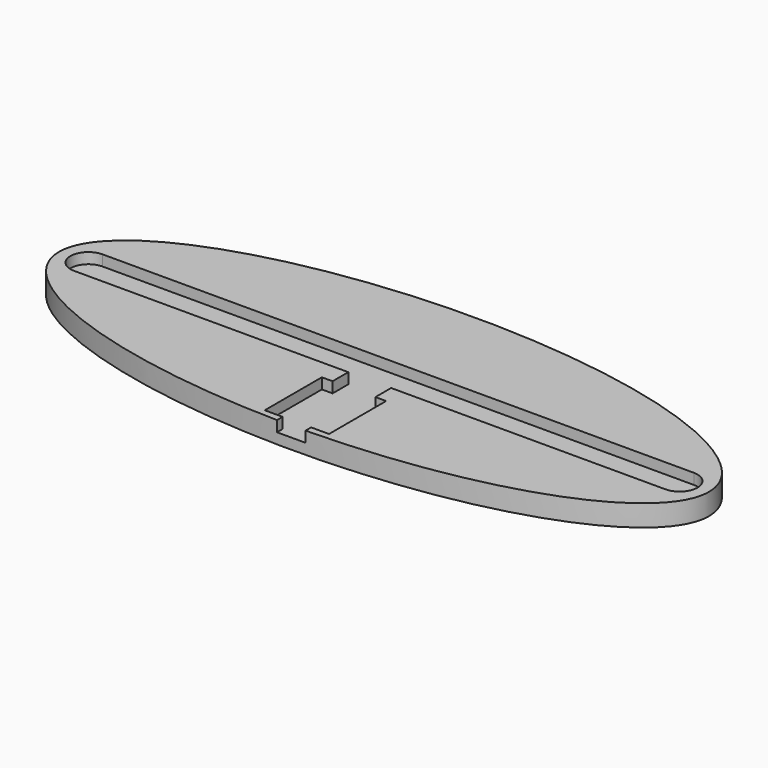
from build123d import *

# Parameters (mm, degrees)
PAD_DEPTH       = 6
POCKET_DEPTH    = 3
SKETCH002_W     = 18
SKETCH002_H     = 20
POCKET001_DEPTH = 3
SKETCH003_W     = 12
SKETCH003_H     = 5.5
SKETCH003_W_2   = 8
SKETCH003_H_2   = 2.1
POCKET002_DEPTH = 3


with BuildPart() as part:
    # Sketch → Pad (new body)
    with BuildSketch(Plane.XY):
        with BuildLine():
            add(Edge.make_bspline(
                [(91.001374, 0), (91.001374, 56.291651), (-45.500687, 28.145826), (-182.002747, 0), (-45.500687, -28.145826), (91.001374, -56.291651), (91.001374, 0)],
                knots=[0, 0, 0, 2.094395, 2.094395, 4.18879, 4.18879, 6.283185, 6.283185, 6.283185], degree=2, weights=[1, 0.5, 1, 0.5, 1, 0.5, 1]))
        make_face()
    extrude(amount=PAD_DEPTH)

    # Sketch001 (on Face3 of Pad) → Pocket (cut)
    with BuildSketch(Plane.XY.offset(6)):
        with BuildLine():
            ThreePointArc((-82.8, 5), (-87.8, 0), (-82.8, -5))
            Line((-82.8, -5), (82.8, -5))
            ThreePointArc((82.8, -5), (87.8, 0), (82.8, 5))
            Line((-82.8, 5), (82.8, 5))
        make_face()
    extrude(amount=-POCKET_DEPTH, mode=Mode.SUBTRACT)

    # Sketch002 (on Face3 of Pocket) → Pocket001 (cut)
    with BuildSketch(Plane.XY.offset(6)):
        with Locations((0, -20.5)):
            Rectangle(SKETCH002_W, SKETCH002_H)
    extrude(amount=-POCKET001_DEPTH, mode=Mode.SUBTRACT)

    # Sketch003 (on Face3 of Pocket001) → Pocket002 (cut)
    with BuildSketch(Plane.XY.offset(6)):
        with Locations((0, -7.75)):
            Rectangle(SKETCH003_W, SKETCH003_H)
        with Locations((0, -31.55)):
            Rectangle(SKETCH003_W_2, SKETCH003_H_2)
    extrude(amount=-POCKET002_DEPTH, mode=Mode.SUBTRACT)


solid = part.part
